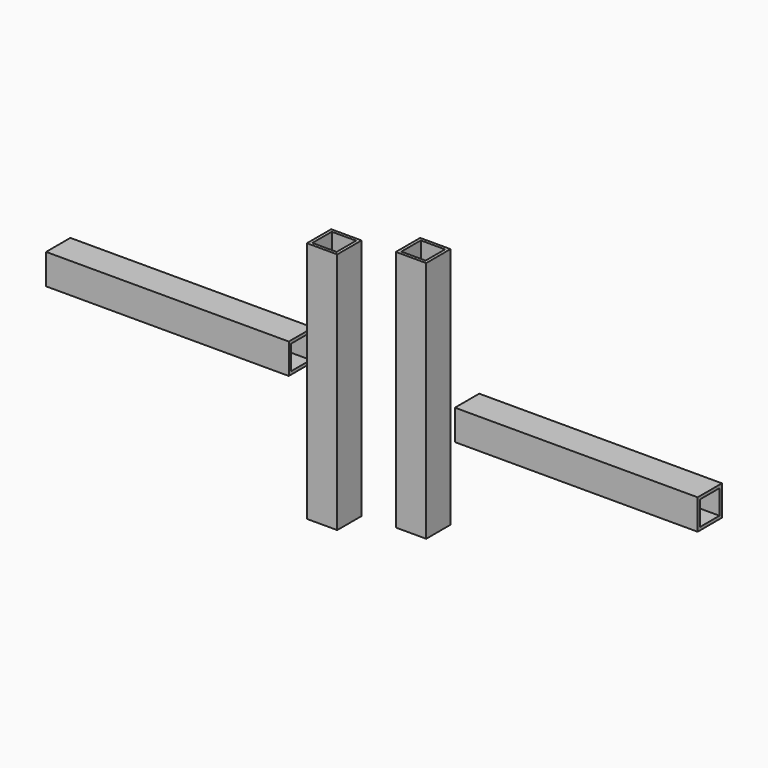
from build123d import *

# Parameters (mm, degrees)
F0_W     = 25.4
F0_H     = 203.2
F1_DEPTH = 25.4
F0_W_2   = 203.2
F0_H_2   = 25.4
F2_T     = -2.54
F2_2_T   = -2.54
F2_3_T   = -2.54
F2_4_T   = -2.54


with BuildPart() as f1:
    # F0 (on Front) → F1 (new body)
    with BuildSketch(Plane.XZ):
        with Locations((-46.3385161425, 7.4449833483)):
            Rectangle(F0_W, F0_H)
    extrude(amount=F1_DEPTH)

    # F2#2
    f2_2_openings = [f1.faces().sort_by_distance(p)[0] for p in [
        (-46.338516, -12.7, 109.044983),
        (-46.338516, -12.7, -94.155017),
    ]]
    offset(amount=F2_2_T, openings=f2_2_openings)


with BuildPart() as f1b:
    # F0 (on Front) → F1, piece 2 (new body)
    with BuildSketch(Plane.XZ):
        with Locations((28.1554080218, 25.2773252487)):
            Rectangle(F0_W, F0_H)
    extrude(amount=F1_DEPTH)

    # F2
    f2_openings = [f1b.faces().sort_by_distance(p)[0] for p in [
        (28.155408, -12.7, 126.877325),
        (28.155408, -12.7, -76.322675),
    ]]
    offset(amount=F2_T, openings=f2_openings)


with BuildPart() as f1c:
    # F0 (on Front) → F1, piece 3 (new body)
    with BuildSketch(Plane.XZ):
        with Locations((166.5089366198, 15.4533425018)):
            Rectangle(F0_W_2, F0_H_2)
    extrude(amount=F1_DEPTH)

    # F2#4
    f2_4_openings = [f1c.faces().sort_by_distance(p)[0] for p in [
        (268.108937, -12.7, 15.453343),
        (64.908937, -12.7, 15.453343),
    ]]
    offset(amount=F2_4_T, openings=f2_4_openings)


with BuildPart() as f1d:
    # F0 (on Front) → F1, piece 4 (new body)
    with BuildSketch(Plane.XZ):
        with Locations((-175.8043679237, 18.9456247397)):
            Rectangle(F0_W_2, F0_H_2)
    extrude(amount=F1_DEPTH)

    # F2#3
    f2_3_openings = [f1d.faces().sort_by_distance(p)[0] for p in [
        (-74.204368, -12.7, 18.945625),
        (-277.404368, -12.7, 18.945625),
    ]]
    offset(amount=F2_3_T, openings=f2_3_openings)


solid = Compound([f1.part, f1b.part, f1c.part, f1d.part])
